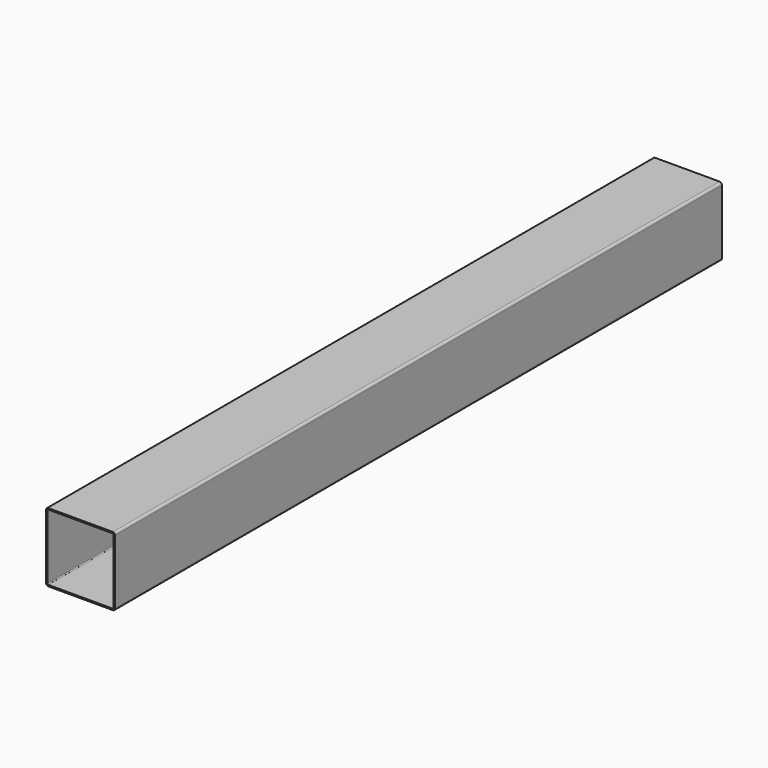
from build123d import *

# Parameters (mm, degrees)
F1_DEPTH = 698.5
F3_DEPTH = 698.501


with BuildPart() as f1:
    # F0 (on Front) → F1 (new body)
    with BuildSketch(Plane.XZ):
        with BuildLine():
            Line((-29.718, -31.75), (29.718, -31.75))
            ThreePointArc((29.718, -31.75), (31.154841, -31.154841), (31.75, -29.718))
            Line((31.75, -29.718), (31.75, 29.718))
            ThreePointArc((31.75, 29.718), (31.154841, 31.154841), (29.718, 31.75))
            Line((29.718, 31.75), (-29.718, 31.75))
            ThreePointArc((-29.718, 31.75), (-31.154841, 31.154841), (-31.75, 29.718))
            Line((-31.75, 29.718), (-31.75, -29.718))
            ThreePointArc((-31.75, -29.718), (-31.154841, -31.154841), (-29.718, -31.75))
        make_face()
    extrude(amount=F1_DEPTH)

    # F2 (on face) → F3 (cut, through all)
    with BuildSketch(Plane.XZ.offset(698.5)):
        with BuildLine():
            ThreePointArc((29.718, -30.48), (30.256815, -30.256815), (30.48, -29.718))
            Line((30.48, -29.718), (30.48, 29.718))
            ThreePointArc((30.48, 29.718), (30.256815, 30.256815), (29.718, 30.48))
            Line((29.718, 30.48), (-29.718, 30.48))
            ThreePointArc((-29.718, 30.48), (-30.256815, 30.256815), (-30.48, 29.718))
            Line((-30.48, 29.718), (-30.48, -29.718))
            ThreePointArc((-30.48, -29.718), (-30.256815, -30.256815), (-29.718, -30.48))
            Line((-29.718, -30.48), (29.718, -30.48))
        make_face()
    extrude(amount=-F3_DEPTH, mode=Mode.SUBTRACT)


solid = f1.part
